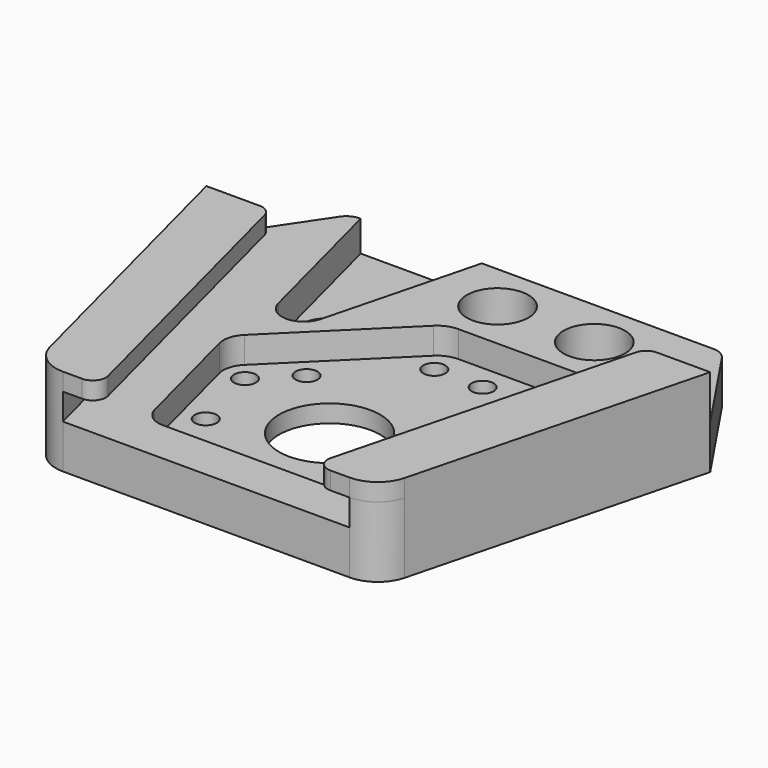
from build123d import *

# Parameters (mm, degrees)
SKETCH001_R     = 5.75
SKETCH001_R_2   = 3.5
SKETCH001_R_3   = 1.25
PAD_DEPTH       = 5
PAD001_DEPTH    = 8
PAD002_DEPTH    = 2
FILLET_R        = 1.5
POCKET_DEPTH    = 3
POCKET001_DEPTH = 3.5
FILLET001_R     = 2


with BuildPart() as part:
    # Sketch001 → Pad (new body)
    with BuildSketch(Plane.XY):
        with BuildLine():
            Line((-21.15, 47), (-28.65, 35.824688))
            Line((-28.65, 35.824688), (-20.173115, 2.999829))
            ThreePointArc((-20.173115, 2.999829), (-18.749596, 0.837668), (-16.300176, 0))
            Line((-16.300176, 0), (16.300176, 0))
            ThreePointArc((16.300176, 0), (18.749596, 0.837668), (20.173115, 2.999829))
            Line((20.173115, 2.999829), (28.65, 35.824688))
            Line((28.65, 35.824688), (21.15, 47))
            Line((21.15, 47), (-21.15, 47))
        make_face()
        with Locations((0, 17.53728)):
            Circle(SKETCH001_R, mode=Mode.SUBTRACT)
        with Locations((0, 41.412344)):
            Circle(SKETCH001_R_2, mode=Mode.SUBTRACT)
        with Locations((11, 41.412344)):
            Circle(SKETCH001_R_2, mode=Mode.SUBTRACT)
        with Locations((-8.941578, 7.5)):
            Circle(SKETCH001_R_3, mode=Mode.SUBTRACT)
        with Locations((-10.316813, 12.825292)):
            Circle(SKETCH001_R_3, mode=Mode.SUBTRACT)
        with Locations((-12.442175, 21.055288)):
            Circle(SKETCH001_R_3, mode=Mode.SUBTRACT)
        with Locations((-8.530434, 24.921588)):
            Circle(SKETCH001_R_3, mode=Mode.SUBTRACT)
        with Locations((8.941578, 7.5)):
            Circle(SKETCH001_R_3, mode=Mode.SUBTRACT)
        with Locations((10.316813, 12.825292)):
            Circle(SKETCH001_R_3, mode=Mode.SUBTRACT)
        with Locations((14.136115, 27.614693)):
            Circle(SKETCH001_R_3, mode=Mode.SUBTRACT)
        with Locations((15.511349, 32.939984)):
            Circle(SKETCH001_R_3, mode=Mode.SUBTRACT)
        with Locations((5.0822, 32.939984)):
            Circle(SKETCH001_R_3, mode=Mode.SUBTRACT)
        with Locations((-0.4178, 32.939984)):
            Circle(SKETCH001_R_3, mode=Mode.SUBTRACT)
        with BuildLine():
            ThreePointArc((-10.65, 33.324688), (-13.15, 35.824688), (-15.65, 33.324688))
            Line((-15.65, 33.324688), (-15.65, 30.324688))
            ThreePointArc((-15.65, 30.324688), (-13.15, 27.824688), (-10.65, 30.324688))
            Line((-10.65, 30.324688), (-10.65, 33.324688))
        make_face(mode=Mode.SUBTRACT)
    extrude(amount=PAD_DEPTH)

    # Sketch002 → Pad001 (join)
    with BuildSketch(Plane.XY):
        with BuildLine():
            Line((-25.551578, 35.824688), (-28.65, 35.824688))
            Line((-28.65, 35.824688), (-20.173115, 2.999829))
            ThreePointArc((-20.173115, 2.999829), (-18.749596, 0.837668), (-16.300176, 0))
            Line((-16.300176, 0), (-25.551578, 35.824688))
        make_face()
        with BuildLine():
            Line((28.65, 35.824688), (25.551578, 35.824688))
            Line((16.3, 0), (25.551578, 35.824688))
            ThreePointArc((16.3, 0), (18.749527, 0.837614), (20.173115, 2.999829))
            Line((28.65, 35.824688), (20.173115, 2.999829))
        make_face()
    extrude(amount=PAD001_DEPTH)

    # Sketch003 → Pad002 (join)
    with BuildSketch(Plane.XY.offset(8)):
        with BuildLine():
            Line((-16.300176, 0), (-12.168771, 0))
            Line((-12.168771, 0), (-21.420349, 35.824688))
            Line((-21.420349, 35.824688), (-28.65, 35.824688))
            Line((-28.65, 35.824688), (-20.173115, 2.999829))
            ThreePointArc((-20.173115, 2.999829), (-18.749596, 0.837668), (-16.300176, 0))
        make_face()
        with BuildLine():
            Line((16.300176, 0), (12.168771, 0))
            Line((12.168771, 0), (21.420349, 35.824688))
            Line((21.420349, 35.824688), (28.65, 35.824688))
            Line((28.65, 35.824688), (20.173115, 2.999829))
            ThreePointArc((16.300176, 0), (18.749596, 0.837668), (20.173115, 2.999829))
        make_face()
    extrude(amount=PAD002_DEPTH)

    # Fillet
    fillet_edges = [part.edges().sort_by_distance(p)[0] for p in [
        (-12.168771, 0, 9),
        (12.168771, 0, 9),
        (-21.420349, 35.824688, 9),
        (21.420349, 35.824688, 9),
    ]]
    fillet(fillet_edges, radius=FILLET_R)

    # Sketch004 (on DatumPlane) → Pocket (cut)
    with BuildSketch(Plane.XY.offset(5)):
        with BuildLine():
            Line((-11.362165, 6.874893), (-14.862762, 20.430181))
            ThreePointArc((-14.133267, 23.073669), (-14.85103, 21.849343), (-14.862762, 20.430181))
            Line((-14.133267, 23.073669), (-2.108891, 34.958365))
            ThreePointArc((0, 35.824688), (-1.139949, 35.599669), (-2.108891, 34.958365))
            Line((0, 35.824688), (14.319644, 35.824688))
            ThreePointArc((17.708466, 31.449539), (17.086685, 34.467931), (14.319644, 35.824688))
            Line((17.708466, 31.449539), (11.362165, 6.874893))
            ThreePointArc((8.941578, 5), (10.472466, 5.523543), (11.362165, 6.874893))
            Line((8.941578, 5), (-8.941578, 5))
            ThreePointArc((-11.362165, 6.874893), (-10.472466, 5.523543), (-8.941578, 5))
        make_face()
    extrude(amount=-POCKET_DEPTH, mode=Mode.SUBTRACT)

    # Sketch005 (on DatumPlane) → Pocket001 (cut)
    with BuildSketch(Plane.XY.offset(5)):
        with BuildLine():
            Line((-6.261651, 47), (-10.729413, 29.699582))
            ThreePointArc((-15.570587, 29.699582), (-13.15, 27.824688), (-10.729413, 29.699582))
            Line((-15.570587, 29.699582), (-20.038349, 47))
            Line((-20.038349, 47), (-6.261651, 47))
        make_face()
    extrude(amount=-POCKET001_DEPTH, mode=Mode.SUBTRACT)

    # Fillet001
    fillet001_edges = [part.edges().sort_by_distance(p)[0] for p in [
        (-21.15, 47, 2.5),
        (21.15, 47, 2.5),
    ]]
    fillet(fillet001_edges, radius=FILLET001_R)


solid = part.part
